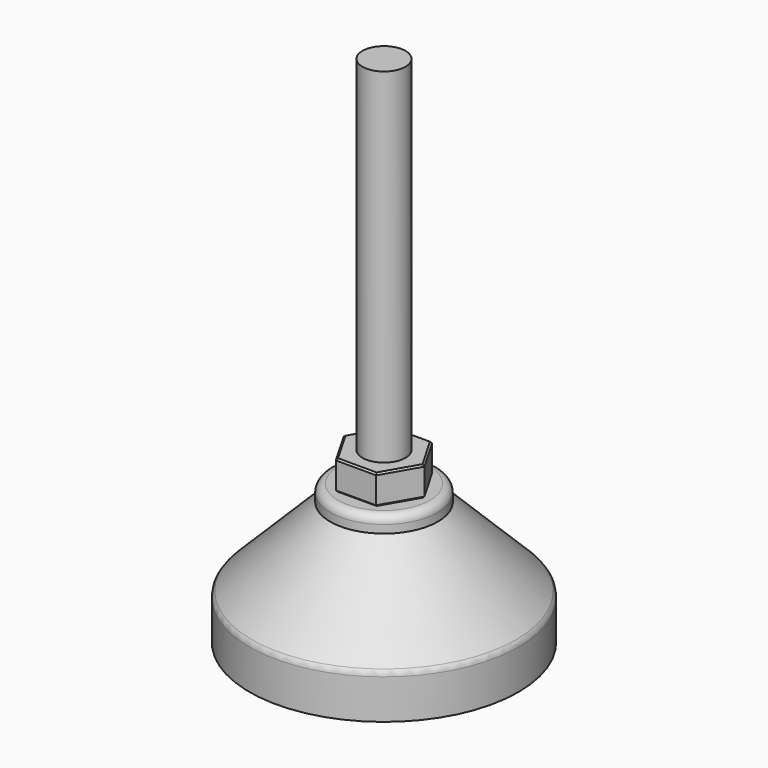
from build123d import *

# Parameters (mm, degrees)
SKETCH_R        = 25
PAD_DEPTH       = 23
CHAMFER_SIZE    = 15
SKETCH001_R     = 10
PAD001_DEPTH    = 3
FILLET_R        = 1.5
PAD002_DEPTH    = 5.5
CHAMFER001_SIZE = 0.3
SKETCH003_R     = 4
PAD003_DEPTH    = 64


with BuildPart() as body:
    # Sketch → Pad (new body)
    with BuildSketch(Plane.XY):
        Circle(SKETCH_R)
    extrude(amount=PAD_DEPTH)

    # Chamfer
    chamfer_edges = [body.edges().sort_by_distance(p)[0] for p in [
        (-25, 0, 23),
    ]]
    chamfer(chamfer_edges, length=CHAMFER_SIZE)

    # Sketch001 (on Face4 of Chamfer) → Pad001 (join)
    with BuildSketch(Plane.XY.offset(23)):
        Circle(SKETCH001_R)
    extrude(amount=PAD001_DEPTH)

    # Fillet
    fillet_edges = [body.edges().sort_by_distance(p)[0] for p in [
        (-10, 0, 26),
        (-25, 0, 8),
    ]]
    fillet(fillet_edges, radius=FILLET_R)


with BuildPart() as body001:
    # Sketch002 (on Face1 of CopyFillet) → Pad002 (new body)
    with BuildSketch(Plane.XY.offset(26)):
        Polygon((7.505553, 0), (3.752777, 6.5), (-3.752777, 6.5), (-7.505553, 0), (-3.752777, -6.5), (3.752777, -6.5), align=None)
    extrude(amount=PAD002_DEPTH)

    # Chamfer001
    chamfer001_edges = [body001.edges().sort_by_distance(p)[0] for p in [
        (5.629165, -3.25, 31.5),
        (5.629165, 3.25, 31.5),
        (0, 6.5, 31.5),
        (-5.629165, 3.25, 31.5),
        (-5.629165, -3.25, 31.5),
        (0, -6.5, 31.5),
        (0, -6.5, 26),
        (-5.629165, -3.25, 26),
        (-5.629165, 3.25, 26),
        (0, 6.5, 26),
        (5.629165, 3.25, 26),
        (5.629165, -3.25, 26),
    ]]
    chamfer(chamfer001_edges, length=CHAMFER001_SIZE)

    # Sketch003 (on Face11 of Chamfer001) → Pad003 (join)
    with BuildSketch(Plane.XY.offset(31.5)):
        Circle(SKETCH003_R)
    extrude(amount=PAD003_DEPTH)


solid = Compound([body.part, body001.part])
